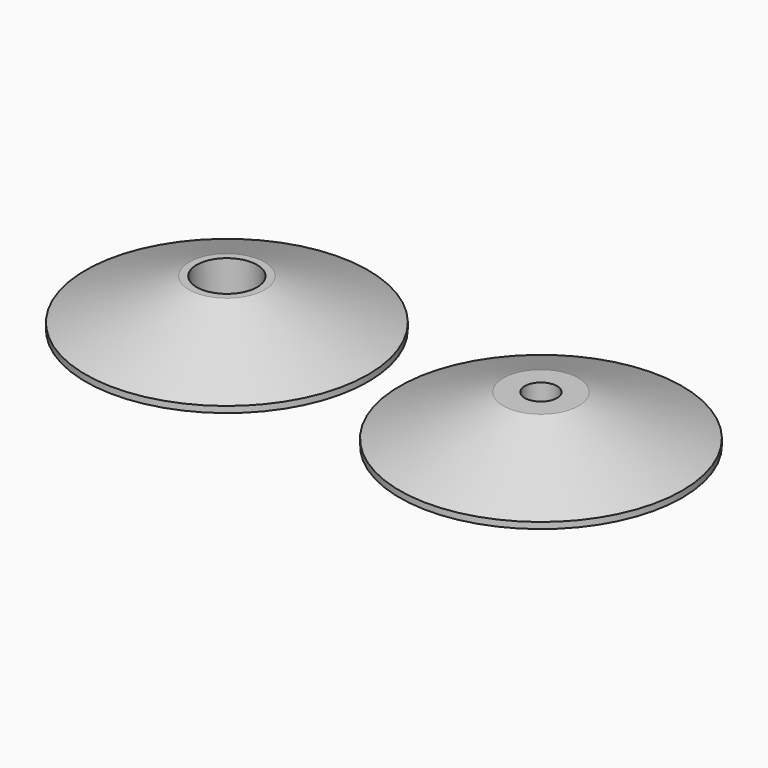
from build123d import *

# Parameters (mm, degrees)
F3_D           = 12.6
F3_CBORE_D     = 19.25
F3_CBORE_DEPTH = 12
F9_D           = 10.3


with BuildPart() as f1:
    # F0 (on Front) → F1 (revolve)
    with BuildSketch(Plane.XZ):
        Polygon((0, 15), (0, 0), (45, 0), (45, 2), (12, 15), align=None)
    revolve(axis=Axis((0, 0, 10.7102552429), (0, 0, 1)))

    # F3 (through all)
    with Locations(Plane.XY.offset(15)):
        with Locations((0, 0)):
            CounterBoreHole(F3_D / 2, F3_CBORE_D / 2, F3_CBORE_DEPTH)


with BuildPart() as f4_1:
    # F4: copy of F1
    add(f1.part.moved(Location((100, 0, 0))))


with BuildPart() as f7:
    # F6 (on Front) → F7 (revolve)
    with BuildSketch(Plane.XZ):
        Polygon((100, 15), (100, 0), (145, 0), (145, 2), (112, 15), align=None)
    revolve(axis=Axis((100, 0, 7.5), (0, 0, -1)))

    # F9 (through all)
    with Locations(Plane.XY.offset(15)):
        with Locations((100, 0)):
            Hole(F9_D / 2)


solid = Compound([f1.part, f7.part])
